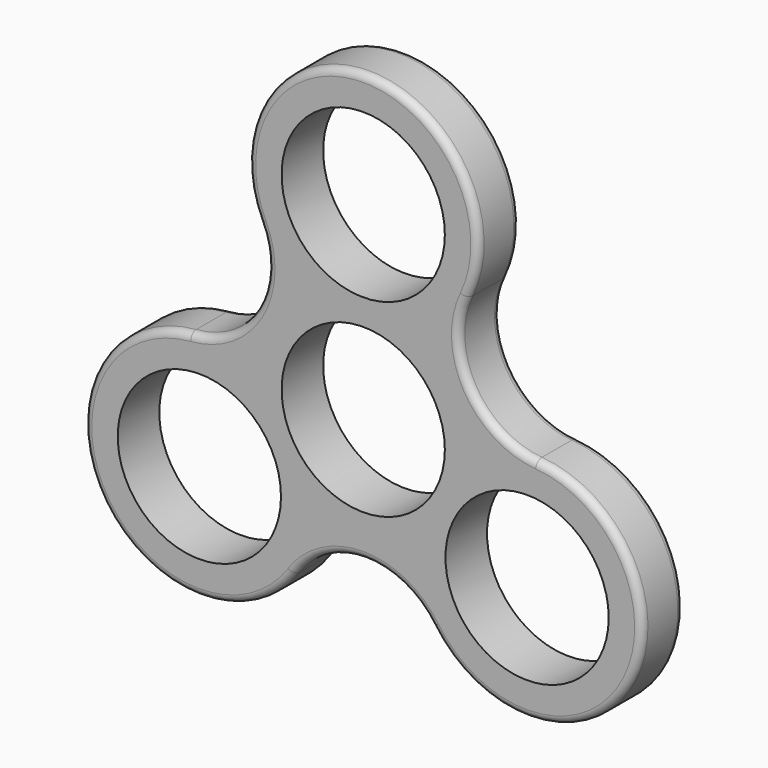
from build123d import *

# Parameters (mm, degrees)
F0_R     = 279.4
F1_DEPTH = 177.8
F2_R     = 25.4


with BuildPart() as f1:
    # F0 (on Front) → F1 (new body)
    with BuildSketch(Plane.XZ):
        with BuildLine():
            ThreePointArc((591.889852, 68.630377), (365.897869, 211.251233), (355.380576, 478.276459))
            ThreePointArc((355.380576, 478.276459), (0, 1041.4), (-355.380576, 478.276459))
            ThreePointArc((-355.380576, 478.276459), (-365.897869, 211.251233), (-591.889852, 68.630377))
            ThreePointArc((-591.889852, 68.630377), (-901.878856, -520.7), (-236.509276, -546.906837))
            ThreePointArc((-236.509276, -546.906837), (0, -422.502466), (236.509276, -546.906837))
            ThreePointArc((236.509276, -546.906837), (901.878856, -520.7), (591.889852, 68.630377))
        make_face()
        with Locations((-560.924654, -323.85)):
            Circle(F0_R, mode=Mode.SUBTRACT)
        Circle(F0_R, mode=Mode.SUBTRACT)
        with Locations((560.924654, -323.85)):
            Circle(F0_R, mode=Mode.SUBTRACT)
        with Locations((0, 647.7)):
            Circle(F0_R, mode=Mode.SUBTRACT)
    extrude(amount=F1_DEPTH)

    # F2
    f2_edges = [f1.edges().sort_by_distance(p)[0] for p in [
        (0, -177.8, 1041.4),
        (0, 0, 1041.4),
    ]]
    fillet(f2_edges, radius=F2_R)


solid = f1.part
